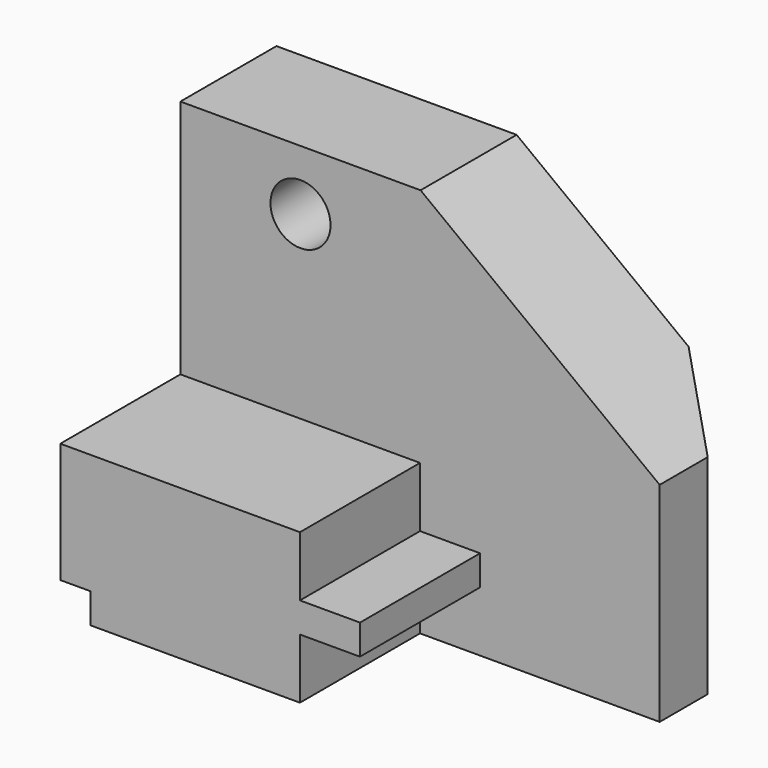
from build123d import *

# Parameters (mm, degrees)
F1_DEPTH = 25.4
F3_DEPTH = 96.466142
F4_W     = 12.7
F4_H     = 44.147057
F5_DEPTH = 101.372375
F6_R     = 6.35
F7_DEPTH = 25.401
F9_DEPTH = 31.75


with BuildPart() as f1:
    # F0 (on Front) → F1 (new body)
    with BuildSketch(Plane.XZ):
        Polygon((0, 82.55), (0, 0), (101.371375, 0), (101.371375, 44.147057), (50.8, 82.55), align=None)
    extrude(amount=F1_DEPTH)

    # F2 (on face) → F3 (cut, through all)
    with BuildSketch(Plane(origin=(58.339296, 0, 76.824801), x_dir=(0.7964, 0, -0.604771), z_dir=(0.604771, 0, 0.7964))):
        Polygon((36.194164, 0), (54.033275, -12.7), (54.033275, 0), align=None)
    extrude(amount=-F3_DEPTH, mode=Mode.SUBTRACT)

    # F4 (on face) → F5 (cut, through all)
    with BuildSketch(Plane.YZ.offset(101.371375)):
        with Locations((-6.35, 22.073528)):
            Rectangle(F4_W, F4_H)
    extrude(amount=-F5_DEPTH, mode=Mode.SUBTRACT)

    # F6 (on face) → F7 (cut, through all)
    with BuildSketch(Plane.XZ.offset(25.4)):
        with Locations((25.4, 69.85)):
            Circle(F6_R)
    extrude(amount=-F7_DEPTH, mode=Mode.SUBTRACT)

    # F8 (on face) → F9 (join)
    with BuildSketch(Plane.XZ.offset(25.4)):
        Polygon((50.685688, 31.75), (0, 31.75), (0, 6.35), (6.35, 6.35), (6.35, 0), (50.685688, 0), (50.685688, 12.7), (63.385688, 12.7), (63.385688, 19.05), (50.685688, 19.05), align=None)
    extrude(amount=F9_DEPTH)


solid = f1.part
